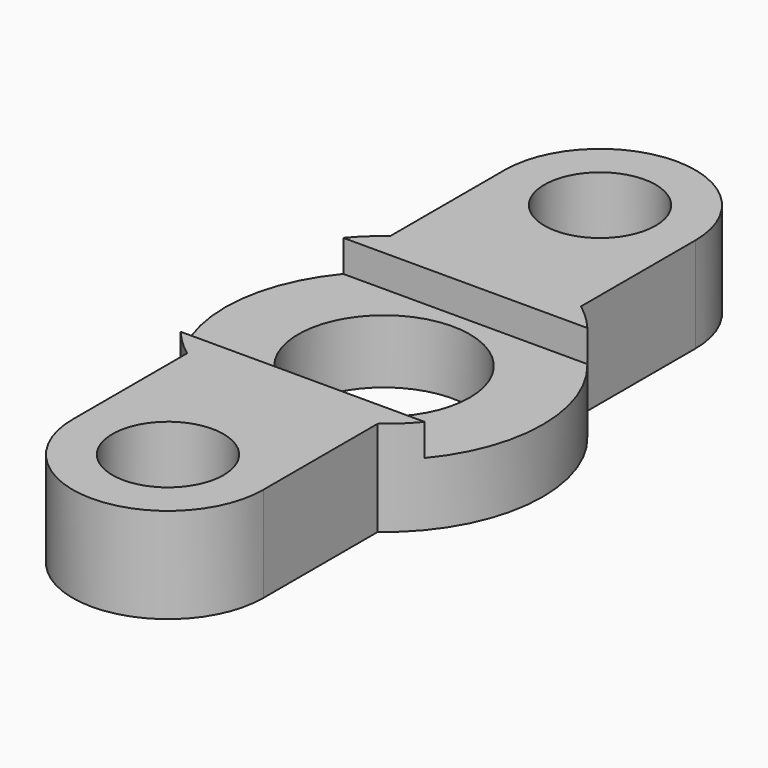
from build123d import *

# Parameters (mm, degrees)
F0_R     = 1.75
F0_R_2   = 2.7
F1_DEPTH = 3
F2_R     = 2.7
F3_DEPTH = 1


with BuildPart() as f1:
    # F0 (on Top) → F1 (new body)
    with BuildSketch(Plane.XY):
        with BuildLine():
            Line((0, 4.5), (0, 0))
            ThreePointArc((0, 0), (3, -3), (6, 0))
            Line((6, 0), (6, 4.5))
            ThreePointArc((6, 4.5), (8, 8.5), (6, 12.5))
            Line((6, 12.5), (6, 17))
            ThreePointArc((6, 17), (3, 20), (0, 17))
            Line((0, 17), (0, 12.5))
            ThreePointArc((0, 12.5), (-2, 8.5), (0, 4.5))
        make_face()
        with Locations((3, 0)):
            Circle(F0_R, mode=Mode.SUBTRACT)
        with Locations((3, 8.5)):
            Circle(F0_R_2, mode=Mode.SUBTRACT)
        with Locations((3, 17)):
            Circle(F0_R, mode=Mode.SUBTRACT)
    extrude(amount=F1_DEPTH)

    # F2 (on face) → F3 (cut)
    with BuildSketch(Plane.XY.offset(3)):
        with BuildLine():
            Line((6.841875, 11.7), (-0.841875, 11.7))
            ThreePointArc((-0.841875, 11.7), (-2, 8.5), (-0.841875, 5.3))
            Line((-0.841875, 5.3), (6.841875, 5.3))
            ThreePointArc((6.841875, 5.3), (8, 8.5), (6.841875, 11.7))
        make_face()
        with Locations((3, 8.5)):
            Circle(F2_R, mode=Mode.SUBTRACT)
    extrude(amount=-F3_DEPTH, mode=Mode.SUBTRACT)


solid = f1.part
